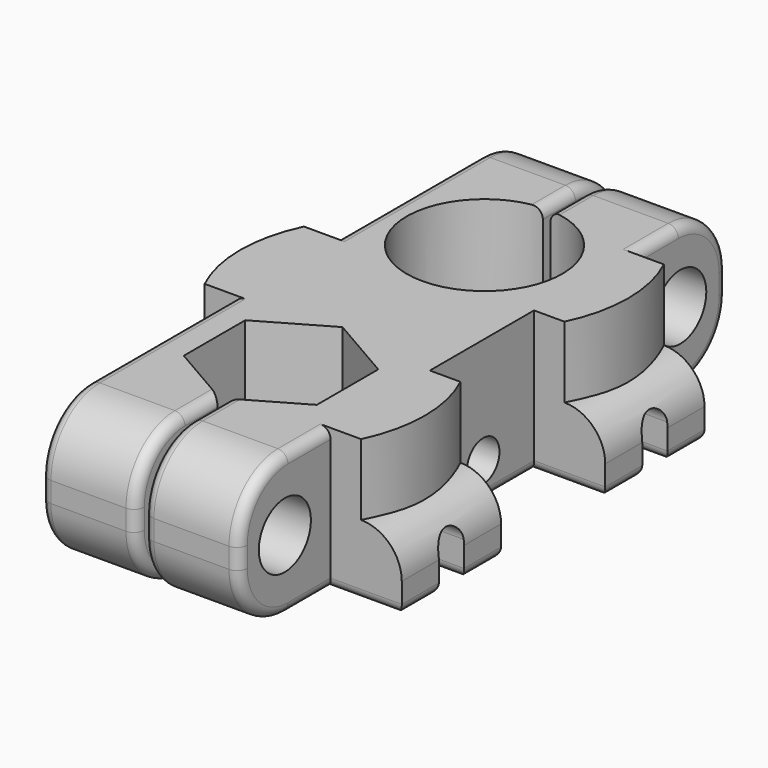
from build123d import *

# Parameters (mm, degrees)
EXTRUDE_DEPTH    = 14
POCKET_DEPTH     = 3.5
POCKET001_DEPTH  = 4
POCKET002_DEPTH  = 4
POCKET003_DEPTH  = 2.25
POCKET004_DEPTH  = 2.25
SKETCH006_R      = 2
POCKET005_DEPTH  = 27.251
SKETCH007_R      = 2
POCKET006_DEPTH  = 27.251
POCKET007_DEPTH  = 48.741803
POCKET008_DEPTH  = 36.088148
EXTRUDE001_DEPTH = 7.5
SKETCH011_R      = 1.55
POCKET009_DEPTH  = 26.501
SKETCH012_R      = 3.2
POCKET010_DEPTH  = 5.5
POCKET011_DEPTH  = 5.5
FILLET_R         = 6
FILLET001_R      = 1


with BuildPart() as pocket008:
    # Sketch → Extrude (new body)
    with BuildSketch(Plane.XY):
        with BuildLine():
            Line((-6.538492, -28.775), (-6.538492, -21.225))
            Line((-6.538492, -21.225), (0, -17.45))
            Line((0, -17.45), (6.538492, -21.225))
            Line((6.538492, -21.225), (6.538492, -28.775))
            Line((6.538492, -28.775), (0.375, -32.333494))
            Line((0.375, -42.333494), (0.375, -32.333494))
            Line((9.75, -42.333494), (0.375, -42.333494))
            Line((9.75, -31.1), (9.75, -42.333494))
            Line((16.75, -31.1), (9.75, -31.1))
            Line((16.75, -18.9), (16.75, -31.1))
            Line((9.75, -18.9), (16.75, -18.9))
            Line((9.75, -6.1), (9.75, -18.9))
            Line((16.75, -6.1), (9.75, -6.1))
            Line((16.75, 6.1), (16.75, -6.1))
            Line((9.75, 6.1), (16.75, 6.1))
            Line((9.75, 17.640803), (9.75, 6.1))
            Line((0.375, 17.640803), (9.75, 17.640803))
            Line((0.375, 7.640803), (0.375, 17.640803))
            ThreePointArc((-0.375, 7.640803), (0, -7.65), (0.375, 7.640803))
            Line((-0.375, 7.640803), (-0.375, 17.640803))
            Line((-0.375, 17.640803), (-9.75, 17.640803))
            Line((-9.75, 17.640803), (-9.75, -6.246345))
            Line((-9.75, -6.246345), (-16.75, -6.246345))
            Line((-16.75, -6.246345), (-16.75, -18.446345))
            Line((-16.75, -18.446345), (-9.75, -18.446345))
            Line((-9.75, -18.446345), (-9.75, -42.333494))
            Line((-9.75, -42.333494), (-0.375, -42.333494))
            Line((-0.375, -42.333494), (-0.375, -32.333494))
            Line((-0.375, -32.333494), (-6.538492, -28.775))
        make_face()
    extrude(amount=EXTRUDE_DEPTH)

    # Sketch001 → Pocket (cut)
    with BuildSketch(Plane(origin=(0, 0, 0), x_dir=(1, 0, 0), z_dir=(0, 0, -1))):
        Polygon((-16.75, 10.796345), (-16.75, 13.896345), (-12.75, 13.896345), (-12.75, 15.471345), (-10.5, 15.471345), (-10.5, 9.221345), (-12.75, 9.221345), (-12.75, 10.796345), align=None)
        Polygon((16.75, 23.45), (16.75, 26.55), (12.75, 26.55), (12.75, 28.125), (10.5, 28.125), (10.5, 21.875), (12.75, 21.875), (12.75, 23.45), align=None)
        Polygon((16.75, -1.55), (16.75, 1.55), (12.75, 1.55), (12.75, 3.125), (10.5, 3.125), (10.5, -3.125), (12.75, -3.125), (12.75, -1.55), align=None)
    extrude(amount=-POCKET_DEPTH, mode=Mode.SUBTRACT)

    # Sketch002 → Pocket001 (cut)
    with BuildSketch(Plane.YZ.offset(16.75)):
        with BuildLine():
            Line((-26.55, 3.5), (-23.45, 3.5))
            ThreePointArc((-23.45, 3.5), (-25, 5.05), (-26.55, 3.5))
        make_face()
        with BuildLine():
            Line((-1.55, 3.5), (1.55, 3.5))
            ThreePointArc((1.55, 3.5), (0, 5.05), (-1.55, 3.5))
        make_face()
    extrude(amount=-POCKET001_DEPTH, mode=Mode.SUBTRACT)

    # Sketch003 → Pocket002 (cut)
    with BuildSketch(Plane(origin=(-16.75, 0, 0), x_dir=(0, -1, 0), z_dir=(-1, 0, 0))):
        with BuildLine():
            Line((10.796345, 3.5), (13.896345, 3.5))
            ThreePointArc((13.896345, 3.5), (12.346345, 5.05), (10.796345, 3.5))
        make_face()
    extrude(amount=-POCKET002_DEPTH, mode=Mode.SUBTRACT)

    # Sketch004 → Pocket003 (cut)
    with BuildSketch(Plane.YZ.offset(10.5)):
        with BuildLine():
            Line((3.125, 3.5), (-3.125, 3.5))
            ThreePointArc((3.125, 3.5), (0, 6.625), (-3.125, 3.5))
        make_face()
        with BuildLine():
            Line((-21.875, 3.5), (-28.125, 3.5))
            ThreePointArc((-21.875, 3.5), (-25, 6.625), (-28.125, 3.5))
        make_face()
    extrude(amount=POCKET003_DEPTH, mode=Mode.SUBTRACT)

    # Sketch005 → Pocket004 (cut)
    with BuildSketch(Plane(origin=(-10.5, 0, 0), x_dir=(0, -1, 0), z_dir=(-1, 0, 0))):
        with BuildLine():
            Line((9.221345, 3.5), (15.471345, 3.5))
            ThreePointArc((15.471345, 3.5), (12.346345, 6.625), (9.221345, 3.5))
        make_face()
    extrude(amount=POCKET004_DEPTH, mode=Mode.SUBTRACT)

    # Sketch006 → Pocket005 (cut, through all)
    with BuildSketch(Plane(origin=(-10.5, 0, 0), x_dir=(0, -1, 0), z_dir=(-1, 0, 0))):
        with Locations((12.346345, 3.5)):
            Circle(SKETCH006_R)
    extrude(amount=-POCKET005_DEPTH, mode=Mode.SUBTRACT)

    # Sketch007 → Pocket006 (cut, through all)
    with BuildSketch(Plane.YZ.offset(10.5)):
        with Locations((-25, 3.5)):
            Circle(SKETCH007_R)
        with Locations((0, 3.5)):
            Circle(SKETCH007_R)
    extrude(amount=-POCKET006_DEPTH, mode=Mode.SUBTRACT)

    # Sketch008 → Pocket007 (cut, through all)
    with BuildSketch(Plane.XZ.offset(31.1)):
        with BuildLine():
            Line((12.75, 7), (12.75, 14))
            Line((12.75, 14), (16.75, 14))
            Line((16.75, 14), (16.75, 3))
            ThreePointArc((16.75, 3), (15.578427, 5.828427), (12.75, 7))
        make_face()
    extrude(amount=-POCKET007_DEPTH, mode=Mode.SUBTRACT)

    # Sketch009 → Pocket008 (cut, through all)
    with BuildSketch(Plane.XZ.offset(18.446345)):
        with BuildLine():
            Line((-12.75, 7), (-12.75, 14))
            Line((-12.75, 14), (-16.75, 14))
            Line((-16.75, 14), (-16.75, 3))
            ThreePointArc((-12.75, 7), (-15.578427, 5.828427), (-16.75, 3))
        make_face()
    extrude(amount=-POCKET008_DEPTH, mode=Mode.SUBTRACT)


with BuildPart() as fillet001:
    # Sketch010 → Extrude001 (new body)
    with BuildSketch(Plane.XY.offset(14)):
        with BuildLine():
            Line((-12.75, -6.246345), (-12.75, -18.446345))
            ThreePointArc((-12.75, -6.246345), (-14.137801, -12.346345), (-12.75, -18.446345))
        make_face()
        with BuildLine():
            Line((12.75, -18.9), (12.75, -31.1))
            ThreePointArc((12.75, -31.1), (14.137801, -25), (12.75, -18.9))
        make_face()
        with BuildLine():
            Line((12.75, -6.1), (12.75, 6.1))
            ThreePointArc((12.75, -6.1), (14.137801, 0), (12.75, 6.1))
        make_face()
    extrude(amount=-EXTRUDE001_DEPTH)

    # Fusion: union Pocket008
    add(pocket008.part)

    # Sketch011 → Pocket009 (cut, through all)
    with BuildSketch(Plane.YZ.offset(9.75)):
        with Locations((-36.716747, 7)):
            Circle(SKETCH011_R)
        with Locations((11.870402, 7)):
            Circle(SKETCH011_R)
    extrude(amount=-POCKET009_DEPTH, mode=Mode.SUBTRACT)

    # Sketch012 → Pocket010 (cut)
    with BuildSketch(Plane.YZ.offset(9.75)):
        with Locations((-36.716747, 7)):
            Circle(SKETCH012_R)
        with Locations((11.870402, 7)):
            Circle(SKETCH012_R)
    extrude(amount=-POCKET010_DEPTH, mode=Mode.SUBTRACT)

    # Sketch013 → Pocket011 (cut)
    with BuildSketch(Plane(origin=(-9.75, 0, 0), x_dir=(0, -1, 0), z_dir=(-1, 0, 0))):
        Polygon((-11.870402, 10.25), (-14.684984, 8.625), (-14.684984, 5.375), (-11.870402, 3.75), (-9.055819, 5.375), (-9.055819, 8.625), align=None)
        Polygon((36.716747, 10.25), (33.902164, 8.625), (33.902164, 5.375), (36.716747, 3.75), (39.531329, 5.375), (39.531329, 8.625), align=None)
    extrude(amount=-POCKET011_DEPTH, mode=Mode.SUBTRACT)

    # Fillet
    fillet_edges = [fillet001.edges().sort_by_distance(p)[0] for p in [
        (5.0625, 17.640803, 0),
        (5.0625, -42.333494, 0),
        (-5.0625, -42.333494, 0),
        (-5.0625, 17.640803, 0),
        (-5.0625, 17.640803, 14),
        (5.0625, 17.640803, 14),
        (-5.0625, -42.333494, 14),
        (5.0625, -42.333494, 14),
    ]]
    fillet(fillet_edges, radius=FILLET_R)

    # Fillet001
    fillet001_edges = [fillet001.edges().sort_by_distance(p)[0] for p in [
        (-0.375, 9.640803, 0),
        (0.375, 9.640803, 0),
        (0, -7.65, 0),
        (9.75, 8.870402, 0),
        (13.25, 6.1, 0),
        (16.75, 3.825, 0),
        (-9.75, 2.697229, 0),
        (14.75, 1.55, 0),
        (-13.25, -6.246345, 0),
        (12.75, 2.3375, 0),
        (-16.75, -8.521345, 0),
        (11.625, 3.125, 0),
        (-14.75, -10.796345, 0),
        (10.5, 0, 0),
        (-12.75, -10.008845, 0),
        (11.625, -3.125, 0),
        (-11.625, -9.221345, 0),
        (12.75, -2.3375, 0),
        (-10.5, -12.346345, 0),
        (14.75, -1.55, 0),
        (-11.625, -15.471345, 0),
        (16.75, -3.825, 0),
        (-12.75, -14.683845, 0),
        (13.25, -6.1, 0),
        (-14.75, -13.896345, 0),
        (9.75, -12.5, 0),
        (-16.75, -16.171345, 0),
        (13.25, -18.9, 0),
        (-13.25, -18.446345, 0),
        (16.75, -21.175, 0),
        (-9.75, -27.389919, 0),
        (14.75, -23.45, 0),
        (12.75, -22.6625, 0),
        (-0.375, -34.333494, 0),
        (11.625, -21.875, 0),
        (-3.456746, -30.554247, 0),
        (10.5, -25, 0),
        (-6.538492, -25, 0),
        (11.625, -28.125, 0),
        (-3.269246, -19.3375, 0),
        (12.75, -27.3375, 0),
        (3.269246, -19.3375, 0),
        (14.75, -26.55, 0),
        (6.538492, -25, 0),
        (16.75, -28.825, 0),
        (3.456746, -30.554247, 0),
        (13.25, -31.1, 0),
        (0.375, -34.333494, 0),
        (9.75, -33.716747, 0),
    ]]
    fillet(fillet001_edges, radius=FILLET001_R)


solid = fillet001.part
